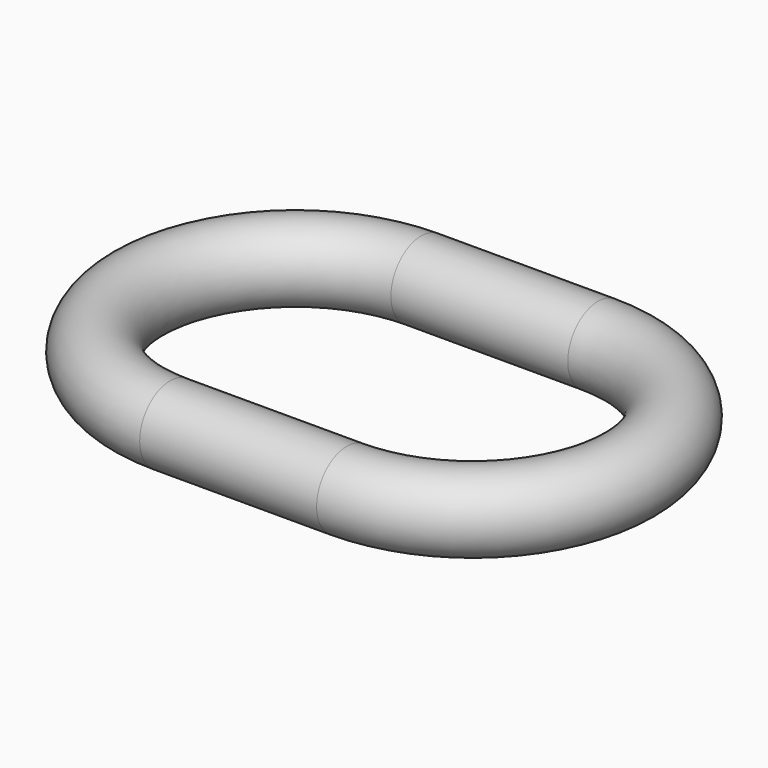
from build123d import *

# Parameters (mm, degrees)
F2_R = 0.635


with BuildPart() as f3:
    # F3: sweep along a path in F0
    with BuildLine(Plane.XY) as f3_path:
        ThreePointArc((-1.48475, 2.63525), (-4.12, 0), (-1.48475, -2.63525))
        Line((-1.48475, -2.63525), (1.48475, -2.63525))
        ThreePointArc((1.48475, -2.63525), (4.12, 0), (1.48475, 2.63525))
        Line((1.48475, 2.63525), (-1.48475, 2.63525))
    # F2 (on plane+point) → F3 (sweep)
    with BuildSketch(Plane.YZ.offset(-1.48475)):
        with Locations((2.63525, 0)):
            Circle(F2_R)
    sweep(path=f3_path.line)


solid = f3.part
